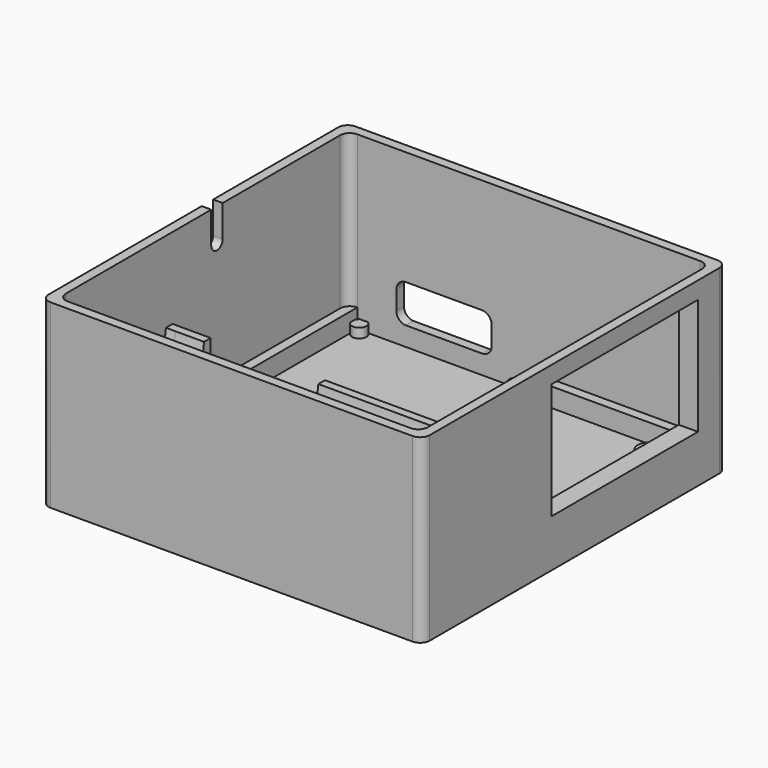
from build123d import *

# Parameters (mm, degrees)
PAD_DEPTH       = 1
PAD001_DEPTH    = 18
SKETCH002_W     = 19.2
SKETCH002_H     = 12.2
POCKET_DEPTH    = 5
SKETCH003_W     = 21.2
SKETCH003_H     = 14.2
SKETCH003_W_2   = 19.2
SKETCH003_H_2   = 12.2
PAD002_DEPTH    = 1
CHAMFER_SIZE    = 0.99
PAD003_DEPTH    = 2
CHAMFER001_SIZE = 1.8
SKETCH005_W     = 36
SKETCH005_H     = 15
PAD004_DEPTH    = 2.5
PAD004_FACE29_W = 15
PAD004_FACE29_H = 36
PAD005_DEPTH    = 10
SKETCH006_R     = 1
SKETCH006_R_2   = 0.751416
SKETCH006_R_3   = 0.769216
PAD006_DEPTH    = 1
SKETCH007_R     = 1.25
PAD007_DEPTH    = 1.2
PAD007_FACE39_W = 15
PAD007_FACE39_H = 36
POCKET001_DEPTH = 5
SKETCH008_R     = 6.15
POCKET002_DEPTH = 19
PAD008_DEPTH    = 1
PAD009_DEPTH    = 1
SKETCH009_W     = 12
SKETCH009_H     = 5
POCKET003_DEPTH = 5
FILLET_R        = 1
POCKET004_DEPTH = 5
POCKET005_DEPTH = 5


with BuildPart() as part:
    # Sketch → Pad (new body)
    with BuildSketch(Plane.XY):
        with BuildLine():
            Line((1, 0), (39, 0))
            ThreePointArc((39, 0), (39.707107, 0.292893), (40, 1))
            Line((40, 1), (40, 39))
            ThreePointArc((40, 39), (39.707107, 39.707107), (39, 40))
            Line((39, 40), (1, 40))
            ThreePointArc((1, 40), (0.292893, 39.707107), (0, 39))
            Line((0, 39), (0, 1))
            ThreePointArc((0, 1), (0.292893, 0.292893), (1, 0))
        make_face()
    extrude(amount=PAD_DEPTH)

    # Sketch001 (on Face10 of Pad) → Pad001 (join)
    with BuildSketch(Plane.XY.offset(1)):
        with BuildLine():
            Line((1, 0), (39, 0))
            ThreePointArc((39, 0), (39.707107, 0.292893), (40, 1))
            Line((40, 1), (40, 39))
            ThreePointArc((40, 39), (39.707107, 39.707107), (39, 40))
            Line((39, 40), (1, 40))
            ThreePointArc((1, 40), (0.292893, 39.707107), (0, 39))
            Line((0, 39), (0, 1))
            ThreePointArc((0, 1), (0.292893, 0.292893), (1, 0))
        make_face()
        with BuildLine():
            Line((2, 1), (38, 1))
            ThreePointArc((38, 1), (38.707107, 1.292893), (39, 2))
            Line((39, 2), (39, 38))
            ThreePointArc((39, 38), (38.707107, 38.707107), (38, 39))
            Line((38, 39), (2, 39))
            ThreePointArc((2, 39), (1.292893, 38.707107), (1, 38))
            Line((1, 38), (1, 2))
            ThreePointArc((1, 2), (1.292893, 1.292893), (2, 1))
        make_face(mode=Mode.SUBTRACT)
    extrude(amount=PAD001_DEPTH)

    # Sketch002 (on Face14 of Pad001) → Pocket (cut)
    with BuildSketch(Plane.YZ.offset(40)):
        with Locations((26.6, 11.1)):
            Rectangle(SKETCH002_W, SKETCH002_H)
    extrude(amount=-POCKET_DEPTH, mode=Mode.SUBTRACT)

    # Sketch003 (on Face17 of Pocket) → Pad002 (join)
    with BuildSketch(Plane(origin=(39, 0, 0), x_dir=(0, -1, 0), z_dir=(-1, 0, 0))):
        with Locations((-26.6, 11.1)):
            Rectangle(SKETCH003_W, SKETCH003_H)
        with Locations((-26.6, 11.1)):
            Rectangle(SKETCH003_W_2, SKETCH003_H_2, mode=Mode.SUBTRACT)
    extrude(amount=PAD002_DEPTH)

    # Chamfer
    chamfer_edges = [part.edges().sort_by_distance(p)[0] for p in [
        (38, 26.6, 18.2),
        (38, 16, 11.1),
        (38, 26.6, 4),
        (38, 37.2, 11.1),
    ]]
    chamfer(chamfer_edges, length=CHAMFER_SIZE)

    # Sketch004 (on Face11 of Chamfer) → Pad003 (join)
    with BuildSketch(Plane.XY.offset(1)):
        with BuildLine():
            Line((2, 39), (2, 18.5))
            ThreePointArc((2, 18.5), (2.292893, 17.792893), (3, 17.5))
            Line((3, 17.5), (5, 17.5))
            Line((5, 17.5), (5, 14))
            Line((5, 14), (17, 14))
            Line((17, 17.5), (17, 14))
            Line((17, 17.5), (19, 17.5))
            ThreePointArc((19, 17.5), (19.707107, 17.792893), (20, 18.5))
            Line((20, 18.5), (20, 20))
            Line((20, 20), (22, 20))
            Line((22, 20), (22, 17.5))
            Line((22, 17.5), (38, 17.5))
            Line((38, 17.5), (38, 38))
            Line((38, 38), (22, 38))
            Line((22, 38), (22, 37))
            Line((22, 37), (20, 37))
            Line((20, 37), (20, 39))
            Line((20, 39), (39, 39))
            Line((39, 1), (39, 39))
            Line((1, 1), (39, 1))
            Line((1, 39), (1, 1))
            Line((1, 39), (2, 39))
        make_face()
    extrude(amount=PAD003_DEPTH)

    # Chamfer001
    chamfer001_edges = [part.edges().sort_by_distance(p)[0] for p in [
        (11, 14, 3),
    ]]
    chamfer(chamfer001_edges, length=CHAMFER001_SIZE)

    # Sketch005 (on Face1 of Chamfer001) → Pad004 (join, symmetric)
    with BuildSketch(Plane.XY.offset(3)):
        with Locations((20, 8.5)):
            Rectangle(SKETCH005_W, SKETCH005_H)
    extrude(amount=PAD004_DEPTH, both=True)

    # Pad004 Face29 → Pad005 (add)
    with BuildSketch(Plane(origin=(20, 8.5, 5.5), x_dir=(0, 1, 0), z_dir=(0, 0, 1))):
        Rectangle(PAD004_FACE29_W, PAD004_FACE29_H)
    extrude(amount=PAD005_DEPTH)

    # Sketch006 (on Face18 of Pad005) → Pad006 (join)
    with BuildSketch(Plane.XY.offset(1)):
        with Locations((3, 18.5)):
            Circle(SKETCH006_R)
        with Locations((19, 18.5)):
            Circle(SKETCH006_R)
        with Locations((2.699211, 38.373474)):
            Circle(SKETCH006_R_2)
        with Locations((19.24682, 38.345665)):
            Circle(SKETCH006_R_3)
    extrude(amount=PAD006_DEPTH)

    # Sketch007 (on Face20 of Pad006) → Pad007 (join)
    with BuildSketch(Plane.XY.offset(1)):
        with Locations((35.5, 35.5)):
            Circle(SKETCH007_R)
        with Locations((35.5, 20)):
            Circle(SKETCH007_R)
    extrude(amount=PAD007_DEPTH)

    # Pad007 Face39 → Pocket001 (cut)
    with BuildSketch(Plane(origin=(20, 8.5, 15.5), x_dir=(0, 1, 0), z_dir=(0, 0, 1))):
        Rectangle(PAD007_FACE39_W, PAD007_FACE39_H)
    extrude(amount=-POCKET001_DEPTH, mode=Mode.SUBTRACT)

    # Sketch008 (on DatumPlane) → Pocket002 (cut, symmetric)
    with BuildSketch(Plane.YZ.offset(20)):
        with Locations((9, 11)):
            Circle(SKETCH008_R)
    extrude(amount=POCKET002_DEPTH, both=True, mode=Mode.SUBTRACT)

    # Pocket002 Face46 → Pad008 (add)
    with BuildSketch(Plane(origin=(2, 8.050341, 5.520041), x_dir=(0, 1, 0), z_dir=(-1, 0, 0))):
        with BuildLine():
            Line((7.949659, 2.520041), (-7.050341, 2.520041))
            Line((-7.050341, 2.520041), (-7.050341, -4.979959))
            Line((-7.050341, -4.979959), (-5.179982, -4.979959))
            ThreePointArc((-5.179982, -4.979959), (0.949659, 0.670041), (7.0793, -4.979959))
            Line((7.0793, -4.979959), (7.949659, -4.979959))
            Line((7.949659, -4.979959), (7.949659, 2.520041))
        make_face()
    extrude(amount=PAD008_DEPTH)

    # Pad008 Face32 → Pad009 (add)
    with BuildSketch(Plane(origin=(38, 8.050341, 5.520041), x_dir=(0, -1, 0), z_dir=(1, 0, 0))):
        with BuildLine():
            Line((7.050341, 2.520041), (-7.949659, 2.520041))
            Line((-7.949659, 2.520041), (-7.949659, -4.979959))
            Line((-7.949659, -4.979959), (-7.0793, -4.979959))
            ThreePointArc((-7.0793, -4.979959), (-0.949659, 0.670041), (5.179982, -4.979959))
            Line((5.179982, -4.979959), (7.050341, -4.979959))
            Line((7.050341, -4.979959), (7.050341, 2.520041))
        make_face()
    extrude(amount=PAD009_DEPTH)

    # Sketch009 (on Face69 of Pad009) → Pocket003 (cut)
    with BuildSketch(Plane.XY.offset(10.5)):
        with Locations((11, 13.5)):
            Rectangle(SKETCH009_W, SKETCH009_H)
    extrude(amount=-POCKET003_DEPTH, mode=Mode.SUBTRACT)

    # Fillet
    fillet_edges = [part.edges().sort_by_distance(p)[0] for p in [
        (11, 16, 5.5),
    ]]
    fillet(fillet_edges, radius=FILLET_R)

    # Sketch010 (on Face62 of Fillet) → Pocket004 (cut)
    with BuildSketch(Plane(origin=(0, 0, 0), x_dir=(0, -1, 0), z_dir=(-1, 0, 0))):
        with BuildLine():
            ThreePointArc((-22.577213, 15.673276), (-21.827213, 14.923276), (-21.077213, 15.673276))
            Line((-21.077213, 15.673276), (-21.077213, 20.673276))
            ThreePointArc((-21.077213, 20.673276), (-21.827213, 21.423276), (-22.577213, 20.673276))
            Line((-22.577213, 15.673276), (-22.577213, 20.673276))
        make_face()
    extrude(amount=-POCKET004_DEPTH, mode=Mode.SUBTRACT)

    # Sketch013 (on Face63 of Pocket004) → Pocket005 (cut)
    with BuildSketch(Plane(origin=(0, 40, 0), x_dir=(-1, 0, 0), z_dir=(0, 1, 0))):
        with BuildLine():
            Line((-6.1, 4), (-6.1, 6))
            ThreePointArc((-6.1, 6), (-6.392893, 6.707107), (-7.1, 7))
            Line((-7.1, 7), (-15.1, 7))
            ThreePointArc((-15.1, 7), (-15.807107, 6.707107), (-16.1, 6))
            Line((-16.1, 6), (-16.1, 4))
            ThreePointArc((-16.1, 4), (-15.807107, 3.292893), (-15.1, 3))
            Line((-15.1, 3), (-7.1, 3))
            ThreePointArc((-7.1, 3), (-6.392893, 3.292893), (-6.1, 4))
        make_face()
    extrude(amount=-POCKET005_DEPTH, mode=Mode.SUBTRACT)


solid = part.part
